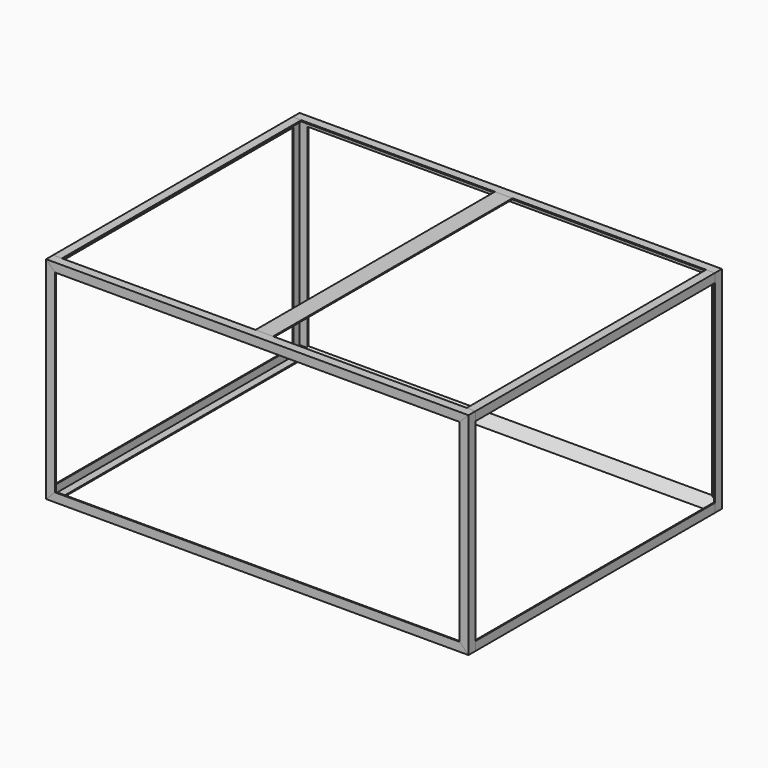
from build123d import *

# Parameters (mm, degrees)
F1_DEPTH  = 609.6
F3_DEPTH  = 25.401
F9_DEPTH  = 1219.2
F12_DEPTH = 1219.2
F15_DEPTH = 1219.2
F18_DEPTH = 863.6
F20_DEPTH = 3.175


with BuildPart() as f1:
    # F0 (on Top) → F1 (new body)
    with BuildSketch(Plane.XY):
        Polygon((25.4, 0), (0, 0), (0, -25.4), (3.175, -25.4), (3.175, -3.175), (25.4, -3.175), align=None)
    extrude(amount=F1_DEPTH)

    # F2 (on face) → F3 (cut, through all)
    with BuildSketch(Plane(origin=(0, 0, 0), x_dir=(-1, 0, 0), z_dir=(0, 1, 0))):
        Polygon((-25.4, 584.2), (0, 609.6), (-25.4, 609.6), align=None)
        Polygon((-25.4, 0), (0, 0), (-25.4, 25.4), align=None)
    extrude(amount=-F3_DEPTH, mode=Mode.SUBTRACT)


with BuildPart() as f4_1:
    # F4: instance of F1
    add(f1.part.mirror(Plane(origin=(25.4, -1.5875, 304.8), x_dir=(0, 1, 0), z_dir=(1, 0, 0))))


with BuildPart() as f4_1_1:
    # F5: moved
    add(f4_1.part.moved(Location((1168.4, 0, 0))))


with BuildPart() as f7_1:
    # F7: instance of F1
    add(f1.part.mirror(Plane.XZ.offset(457.2)))


with BuildPart() as f7_2:
    # F7: instance of F4_1
    add(f4_1_1.part.mirror(Plane.XZ.offset(457.2)))


with BuildPart() as f9:
    # F8 (on face) → F9 (new body, through all)
    with BuildSketch(Plane(origin=(0, 0, 0), x_dir=(0, -1, 0), z_dir=(-1, 0, 0))):
        Polygon((25.4, 606.425), (25.4, 609.6), (0, 609.6), (0, 584.2), (3.175, 584.2), (3.175, 606.425), align=None)
    extrude(amount=-F9_DEPTH)

    # F10: cut F4_1, F1
    add(f4_1_1.part, mode=Mode.SUBTRACT)
    add(f1.part, mode=Mode.SUBTRACT)


with BuildPart() as f9b:
    # F8 (on face) → F9, piece 2 (new body, through all)
    with BuildSketch(Plane(origin=(0, 0, 0), x_dir=(0, -1, 0), z_dir=(-1, 0, 0))):
        Polygon((0, 0), (25.4, 0), (0, 25.4), align=None)
    extrude(amount=-F9_DEPTH)

    # F10: cut F4_1, F1
    add(f4_1_1.part, mode=Mode.SUBTRACT)
    add(f1.part, mode=Mode.SUBTRACT)


with BuildPart() as f12:
    # F11 (on face) → F12 (new body, through all)
    with BuildSketch(Plane(origin=(0, 0, 0), x_dir=(0, -1, 0), z_dir=(-1, 0, 0))):
        Polygon((889, 3.175), (889, 0), (914.4, 0), (914.4, 25.4), (911.225, 25.4), (911.225, 3.175), align=None)
    extrude(amount=-F12_DEPTH)

    # F13: cut F7_1, F7_2
    add(f7_1.part, mode=Mode.SUBTRACT)
    add(f7_2.part, mode=Mode.SUBTRACT)


with BuildPart() as f12b:
    # F11 (on face) → F12, piece 2 (new body, through all)
    with BuildSketch(Plane(origin=(0, 0, 0), x_dir=(0, -1, 0), z_dir=(-1, 0, 0))):
        Polygon((914.4, 609.6), (889, 609.6), (889, 606.425), (911.225, 606.425), (911.225, 584.2), (914.4, 584.2), align=None)
    extrude(amount=-F12_DEPTH)

    # F13: cut F7_1, F7_2
    add(f7_1.part, mode=Mode.SUBTRACT)
    add(f7_2.part, mode=Mode.SUBTRACT)


with BuildPart() as f15:
    # F14 (on face) → F15 (new body, through all)
    with BuildSketch(Plane.YZ.offset(1219.2)):
        Polygon((-889, 606.425), (-889, 609.6), (-914.4, 609.6), (-914.4, 584.2), (-911.225, 584.2), (-911.225, 606.425), align=None)
    extrude(amount=-F15_DEPTH)

    # F16: cut F7_2, F7_1
    add(f7_2.part, mode=Mode.SUBTRACT)
    add(f7_1.part, mode=Mode.SUBTRACT)


with BuildPart() as f18:
    # F17 (on face) → F18 (new body, through all)
    with BuildSketch(Plane(origin=(0, -889, 0), x_dir=(-1, 0, 0), z_dir=(0, 1, 0))):
        Polygon((0, 609.6), (-25.4, 609.6), (-25.4, 606.425), (-3.175, 606.425), (-3.175, 584.2), (0, 584.2), align=None)
    extrude(amount=F18_DEPTH)


with BuildPart() as f18b:
    # F17 (on face) → F18, piece 2 (new body, through all)
    with BuildSketch(Plane(origin=(0, -889, 0), x_dir=(-1, 0, 0), z_dir=(0, 1, 0))):
        Polygon((-1193.8, 606.425), (-1193.8, 609.6), (-1219.2, 609.6), (-1219.2, 584.2), (-1216.025, 584.2), (-1216.025, 606.425), align=None)
    extrude(amount=F18_DEPTH)


with BuildPart() as f18c:
    # F17 (on face) → F18, piece 3 (new body, through all)
    with BuildSketch(Plane(origin=(0, -889, 0), x_dir=(-1, 0, 0), z_dir=(0, 1, 0))):
        Polygon((-1219.2, 25.4), (-1219.2, 0), (-1193.8, 0), (-1193.8, 3.175), (-1216.025, 3.175), (-1216.025, 25.4), align=None)
    extrude(amount=F18_DEPTH)


with BuildPart() as f18d:
    # F17 (on face) → F18, piece 4 (new body, through all)
    with BuildSketch(Plane(origin=(0, -889, 0), x_dir=(-1, 0, 0), z_dir=(0, 1, 0))):
        Polygon((-25.4, 0), (0, 0), (0, 25.4), (-3.175, 25.4), (-3.175, 3.175), (-25.4, 3.175), align=None)
    extrude(amount=F18_DEPTH)


with BuildPart() as f20:
    # F19 (on face) → F20 (new body, through all)
    with BuildSketch(Plane.XY.offset(609.6)):
        Polygon((635.0000000003, -25.4), (609.6000000006, -25.4), (584.2000000003, -25.4), (584.2000000003, -889), (635.0000000003, -889), align=None)
    extrude(amount=-F20_DEPTH)


solid = Compound([f1.part, f4_1_1.part, f7_1.part, f7_2.part, f9.part, f9b.part, f12.part, f12b.part, f15.part, f18.part, f18b.part, f18c.part, f18d.part, f20.part])
